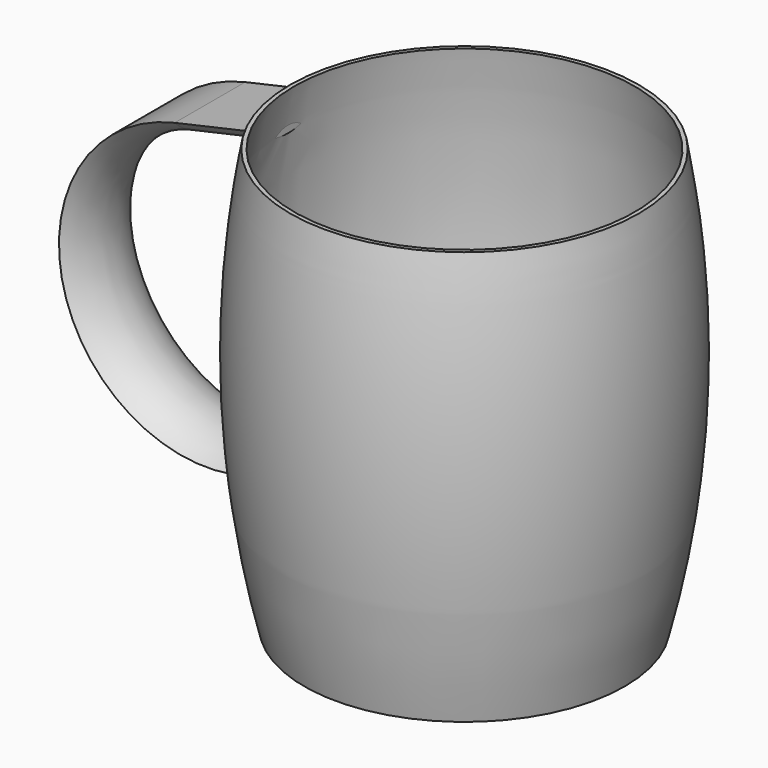
from build123d import *


with BuildPart() as f1:
    # F0 (on Front) → F1 (revolve)
    with BuildSketch(Plane.XZ):
        with BuildLine():
            Line((-42.482594, 52.5), (-43.5, 52.5))
            ThreePointArc((-43.5, 52.5), (-47.5, -0.191667), (-40, -52.5))
            Line((-40, -52.5), (0, -52.5))
            Line((0, -52.5), (0, -51.5))
            Line((0, -51.5), (-39.223174, -51.5))
            ThreePointArc((-39.223174, -51.5), (-46.516105, 0.322511), (-42.482594, 52.5))
        make_face()
    revolve(axis=Axis((0, 0, 0), (0, 0, -1)))

    # F5: sweep along a path in F2
    with BuildLine(Plane.XZ) as f5_path:
        Line((-44, 46.5), (-63.512, 42.108891))
        ThreePointArc((-63.512, 42.108891), (-91.210799, -3.248939), (-45, -29.5))
    # F4 (on offset) → F5 (sweep)
    with BuildSketch(Plane.YZ.offset(-44)):
        with BuildLine():
            ThreePointArc((-11, 46.5), (0, 41.698039), (11, 46.5))
            Line((11, 46.5), (-11, 46.5))
        make_face()
    sweep(path=f5_path.line)


solid = f1.part
